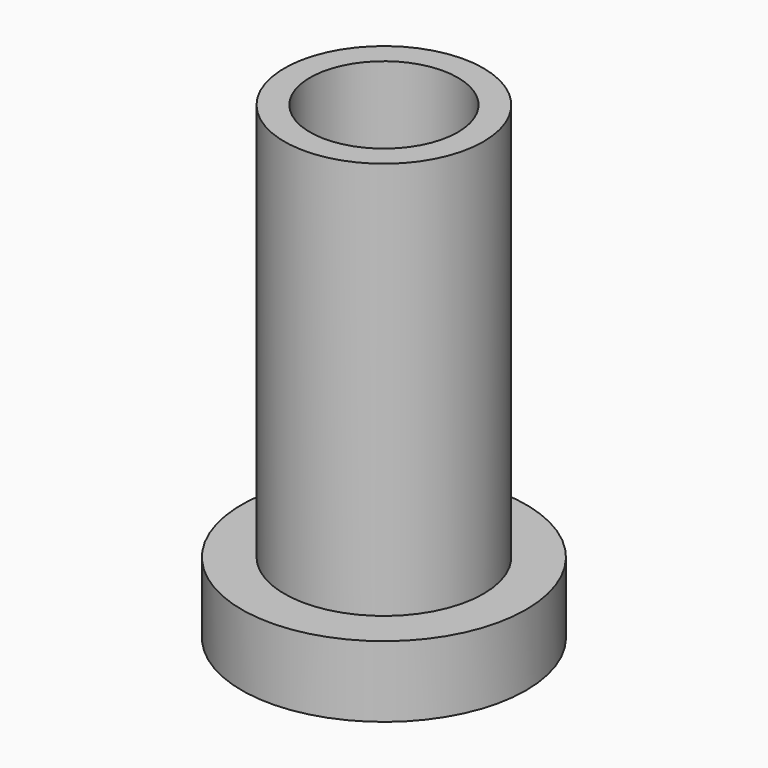
from build123d import *

# Parameters (mm, degrees)
CYLINDER110_R     = 1.5
CYLINDER110_DEPTH = 11
CYLINDER104_R     = 5.2
CYLINDER104_DEPTH = 46
CYLINDER109_R     = 1.5
CYLINDER109_DEPTH = 11
BOX018_W          = 14
BOX018_H          = 1
BOX018_DEPTH      = 5
CYLINDER102_R     = 10
CYLINDER102_DEPTH = 5
CYLINDER071_R     = 7
CYLINDER071_DEPTH = 33


with BuildPart() as obj1:
    # Cylinder110 → Cylinder110 (new body)
    with BuildSketch(Plane(origin=(99.69, 175.69, -10), x_dir=(1, 0, 0), z_dir=(0, 0, 1))):
        Circle(CYLINDER110_R)
    extrude(amount=CYLINDER110_DEPTH)


with BuildPart() as obj2:
    # Cylinder104 → Cylinder104 (new body)
    with BuildSketch(Plane(origin=(86.69, 175.69, -14), x_dir=(1, 0, 0), z_dir=(0, 0, 1))):
        Circle(CYLINDER104_R)
    extrude(amount=CYLINDER104_DEPTH)


with BuildPart() as fusion046:
    # Cylinder109 → Cylinder109 (new body)
    with BuildSketch(Plane(origin=(73.69, 175.69, -10), x_dir=(1, 0, 0), z_dir=(0, 0, 1))):
        Circle(CYLINDER109_R)
    extrude(amount=CYLINDER109_DEPTH)

    # Fusion046: union obj1, obj2
    add(obj1.part)
    add(obj2.part)


with BuildPart() as obj3:
    # Box018 → Box018 (new body)
    with BuildSketch(Plane(origin=(77.69, 171.69, -5), x_dir=(1, 0, 0), z_dir=(0, 0, 1))):
        with Locations((7, 0.5)):
            Rectangle(BOX018_W, BOX018_H)
    extrude(amount=BOX018_DEPTH)


with BuildPart() as obj4:
    # Cylinder102 → Cylinder102 (new body)
    with BuildSketch(Plane(origin=(86.69, 175.69, -5), x_dir=(1, 0, 0), z_dir=(0, 0, 1))):
        Circle(CYLINDER102_R)
    extrude(amount=CYLINDER102_DEPTH)


with BuildPart() as obj5:
    # Cylinder071 → Cylinder071 (new body)
    with BuildSketch(Plane(origin=(86.69, 175.69, -5), x_dir=(1, 0, 0), z_dir=(0, 0, 1))):
        Circle(CYLINDER071_R)
    extrude(amount=CYLINDER071_DEPTH)

    # Fusion045: union obj3, obj4
    add(obj3.part)
    add(obj4.part)

    # Cut013: cut Fusion046
    add(fusion046.part, mode=Mode.SUBTRACT)


solid = obj5.part
